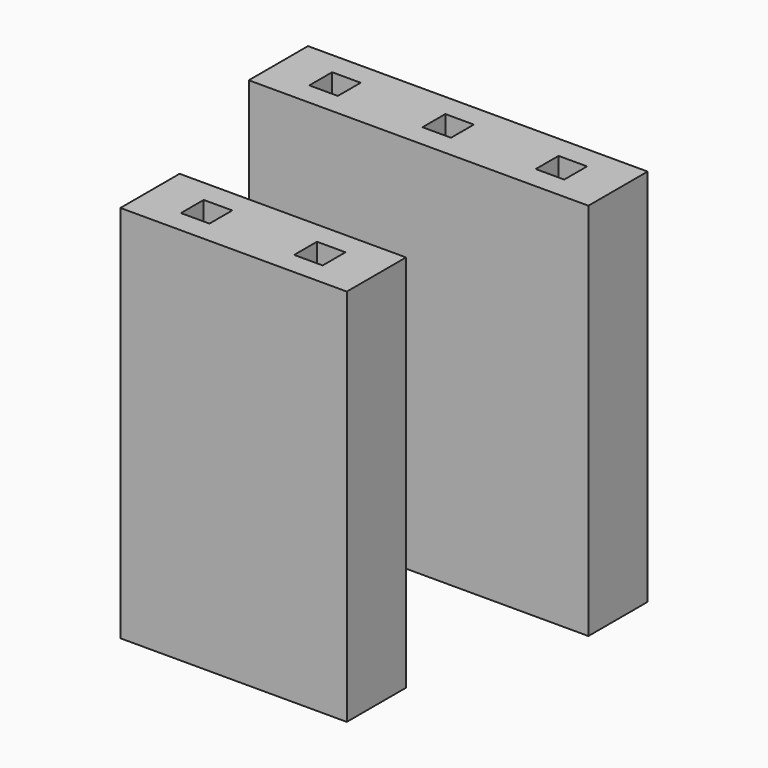
from build123d import *

# Parameters (mm, degrees)
F0_W     = 7.62
F0_H     = 1.66
F0_W_2   = 0.64
F0_H_2   = 0.64
F0_W_3   = 5.08
F1_DEPTH = 8.5


with BuildPart() as f1:
    # F0 (on Top) → F1 (new body)
    with BuildSketch(Plane.XY):
        Rectangle(F0_W, F0_H)
        with Locations((-2.54, 0)):
            Rectangle(F0_W_2, F0_H_2, mode=Mode.SUBTRACT)
        Rectangle(F0_W_2, F0_H_2, mode=Mode.SUBTRACT)
        with Locations((2.54, 0)):
            Rectangle(F0_W_2, F0_H_2, mode=Mode.SUBTRACT)
        with Locations((0, -5.188086)):
            Rectangle(F0_W_3, F0_H)
        with Locations((-1.27, -5.188086)):
            Rectangle(F0_W_2, F0_H_2, mode=Mode.SUBTRACT)
        with Locations((1.27, -5.188086)):
            Rectangle(F0_W_2, F0_H_2, mode=Mode.SUBTRACT)
    extrude(amount=F1_DEPTH)


solid = f1.part
